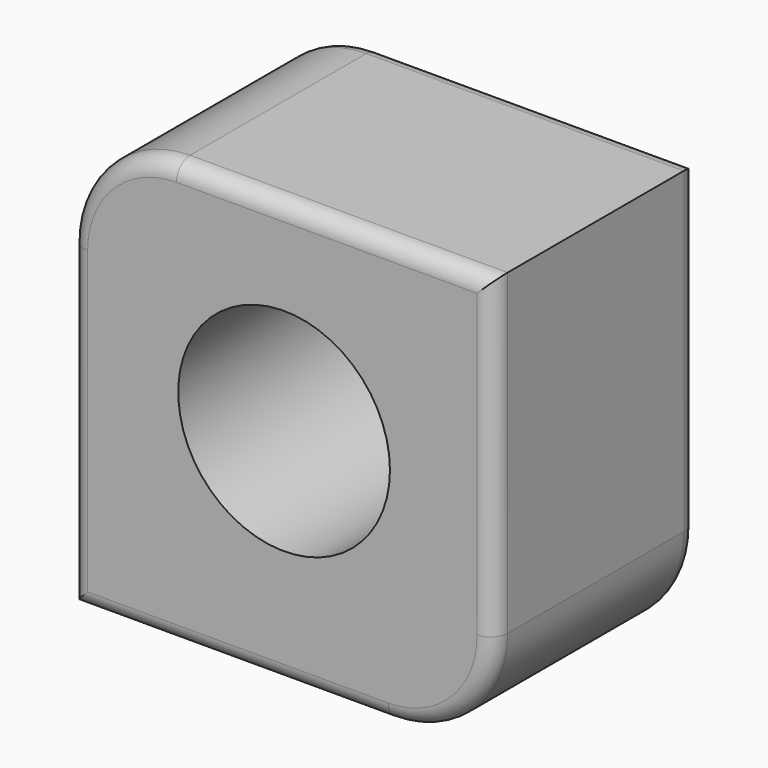
from build123d import *

# Parameters (mm, degrees)
F1_DEPTH  = 60
F2_R      = 4
F3_R      = 4
F4_R      = 25
F5_DEPTH  = 25
F5_FACE_R = 25
F6_DEPTH  = 25


with BuildPart() as f1:
    # F0 (on Front) → F1 (new body)
    with BuildSketch(Plane.XZ):
        with BuildLine():
            Line((49.595254, 69.832447), (-25.404746, 69.832447))
            ThreePointArc((-25.404746, 69.832447), (-43.082416, 62.510116), (-50.404746, 44.832447))
            Line((-50.404746, 44.832447), (-50.404746, -30.167553))
            Line((-50.404746, -30.167553), (24.595254, -30.167553))
            ThreePointArc((24.595254, -30.167553), (42.272923, -22.845223), (49.595254, -5.167553))
            Line((49.595254, -5.167553), (49.595254, 69.832447))
        make_face()
    extrude(amount=F1_DEPTH)

    # F2
    f2_edges = [f1.edges().sort_by_distance(p)[0] for p in [
        (49.595254, -60, 32.332447),
        (12.095254, -60, 69.832447),
        (-43.082416, -60, 62.510116),
        (-50.404746, -60, 7.332447),
        (-12.904746, -60, -30.167553),
        (42.272923, -60, -22.845223),
    ]]
    fillet(f2_edges, radius=F2_R)

    # F3
    f3_edges = [f1.edges().sort_by_distance(p)[0] for p in [
        (49.595254, 0, 32.332447),
        (12.095254, 0, 69.832447),
        (-43.082416, 0, 62.510116),
        (-50.404746, 0, 7.332447),
        (-12.904746, 0, -30.167553),
        (42.272923, 0, -22.845223),
    ]]
    fillet(f3_edges, radius=F3_R)

    # F4 (on face) → F5 (cut)
    with BuildSketch(Plane.XZ.offset(60)):
        with Locations((0, 22.368037)):
            Circle(F4_R)
    extrude(amount=-F5_DEPTH, mode=Mode.SUBTRACT)

    # F5_face (on face) + F4 (on face) → F6 (cut)
    with BuildSketch(Plane(origin=(0, -35, 22.368037), x_dir=(1, 0, 0), z_dir=(0, -1, 0))):
        Circle(F5_FACE_R)
    with BuildSketch(Plane.XZ.offset(60)):
        with Locations((0, 22.368037)):
            Circle(F4_R)
    extrude(amount=-F6_DEPTH, mode=Mode.SUBTRACT)


solid = f1.part
